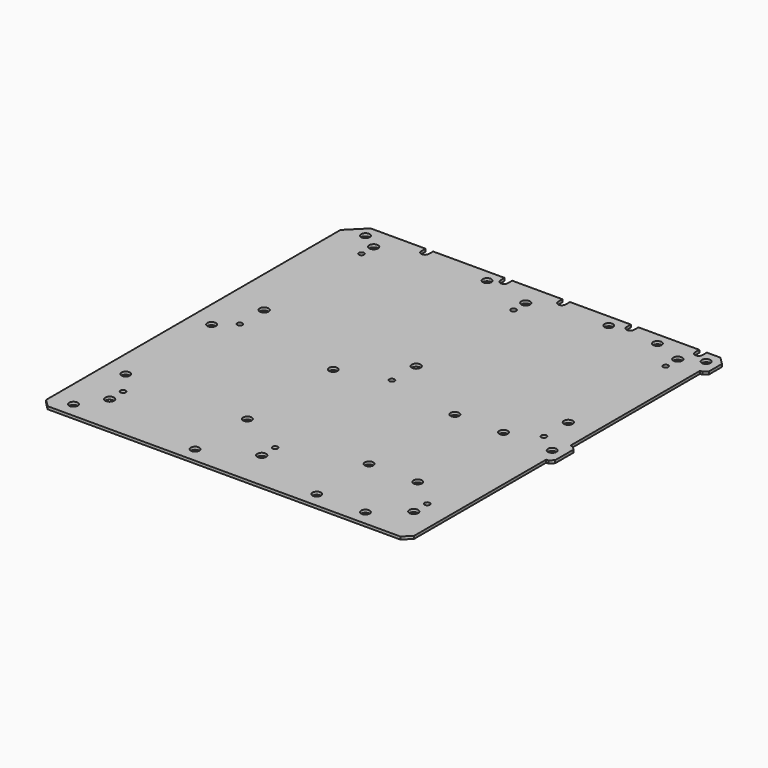
from build123d import *

# Parameters (mm, degrees)
F0_W     = 312.42
F0_H     = 327.66
F0_R     = 3.5687
F0_R_2   = 3.683
F0_R_3   = 2.1844
F1_DEPTH = 2.286
F2_W     = 6.35
F2_H     = 4.445
F2_W_2   = 5.08
F2_H_2   = 135.255
F2_H_3   = 144.145
F3_DEPTH = 2.287
F4_SIZE  = 13.97
F5_SIZE  = 6.35
F6_SIZE  = 3.175


with BuildPart() as f1:
    # F0 (on Top) → F1 (new body)
    with BuildSketch(Plane.XY):
        Rectangle(F0_W, F0_H)
        with Locations((-138.43, -151.13)):
            Circle(F0_R, mode=Mode.SUBTRACT)
        with Locations((-124.46, -130.81)):
            Circle(F0_R_2, mode=Mode.SUBTRACT)
        with Locations((-124.46, -116.84)):
            Circle(F0_R_3, mode=Mode.SUBTRACT)
        with Locations((-138.43, -96.52)):
            Circle(F0_R, mode=Mode.SUBTRACT)
        with Locations((-36.83, -151.13)):
            Circle(F0_R, mode=Mode.SUBTRACT)
        with Locations((-36.83, -96.52)):
            Circle(F0_R, mode=Mode.SUBTRACT)
        with Locations((-138.43, -6.985)):
            Circle(F0_R, mode=Mode.SUBTRACT)
        with Locations((-36.83, -6.985)):
            Circle(F0_R, mode=Mode.SUBTRACT)
        with Locations((2.54, -130.81)):
            Circle(F0_R_2, mode=Mode.SUBTRACT)
        with Locations((64.77, -151.13)):
            Circle(F0_R, mode=Mode.SUBTRACT)
        with Locations((2.54, -116.84)):
            Circle(F0_R_3, mode=Mode.SUBTRACT)
        with Locations((64.77, -96.52)):
            Circle(F0_R, mode=Mode.SUBTRACT)
        with Locations((105.41, -151.13)):
            Circle(F0_R, mode=Mode.SUBTRACT)
        with Locations((129.54, -130.81)):
            Circle(F0_R_2, mode=Mode.SUBTRACT)
        with Locations((105.41, -96.52)):
            Circle(F0_R, mode=Mode.SUBTRACT)
        with Locations((129.54, -116.84)):
            Circle(F0_R_3, mode=Mode.SUBTRACT)
        with Locations((64.77, -6.985)):
            Circle(F0_R, mode=Mode.SUBTRACT)
        with Locations((105.41, -6.985)):
            Circle(F0_R, mode=Mode.SUBTRACT)
        with Locations((146.05, -6.985)):
            Circle(F0_R, mode=Mode.SUBTRACT)
        with Locations((-124.46, 5.08)):
            Circle(F0_R_3, mode=Mode.SUBTRACT)
        with Locations((-124.46, 30.48)):
            Circle(F0_R_2, mode=Mode.SUBTRACT)
        with Locations((-124.46, 132.08)):
            Circle(F0_R_3, mode=Mode.SUBTRACT)
        with Locations((-138.43, 153.67)):
            Circle(F0_R, mode=Mode.SUBTRACT)
        with Locations((-124.46, 144.78)):
            Circle(F0_R_2, mode=Mode.SUBTRACT)
        with Locations((-36.83, 153.67)):
            Circle(F0_R, mode=Mode.SUBTRACT)
        with Locations((2.54, 5.08)):
            Circle(F0_R_3, mode=Mode.SUBTRACT)
        with Locations((2.54, 30.48)):
            Circle(F0_R_2, mode=Mode.SUBTRACT)
        with Locations((129.54, 5.08)):
            Circle(F0_R_3, mode=Mode.SUBTRACT)
        with Locations((129.54, 30.48)):
            Circle(F0_R_2, mode=Mode.SUBTRACT)
        with Locations((2.54, 132.08)):
            Circle(F0_R_3, mode=Mode.SUBTRACT)
        with Locations((2.54, 144.78)):
            Circle(F0_R_2, mode=Mode.SUBTRACT)
        with Locations((64.77, 153.67)):
            Circle(F0_R, mode=Mode.SUBTRACT)
        with Locations((105.41, 153.67)):
            Circle(F0_R, mode=Mode.SUBTRACT)
        with Locations((129.54, 132.08)):
            Circle(F0_R_3, mode=Mode.SUBTRACT)
        with Locations((129.54, 144.78)):
            Circle(F0_R_2, mode=Mode.SUBTRACT)
        with Locations((146.05, 153.67)):
            Circle(F0_R, mode=Mode.SUBTRACT)
    extrude(amount=F1_DEPTH)

    # F2 (on face) → F3 (cut, through all)
    with BuildSketch(Plane.XY.offset(2.286)):
        with BuildLine():
            ThreePointArc((-96.393, 159.385), (-93.218, 156.21), (-90.043, 159.385))
            Line((-90.043, 159.385), (-96.393, 159.385))
        make_face()
        with Locations((-93.218, 161.6075)):
            Rectangle(F2_W, F2_H)
        with Locations((-93.218, 166.0525)):
            Rectangle(F2_W, F2_H)
        with Locations((-27.178, 166.0525)):
            Rectangle(F2_W, F2_H)
        with Locations((-27.178, 161.6075)):
            Rectangle(F2_W, F2_H)
        with BuildLine():
            Line((-24.003, 159.385), (-30.353, 159.385))
            ThreePointArc((-30.353, 159.385), (-27.178, 156.21), (-24.003, 159.385))
        make_face()
        with Locations((21.082, 166.0525)):
            Rectangle(F2_W, F2_H)
        with Locations((21.082, 161.6075)):
            Rectangle(F2_W, F2_H)
        with BuildLine():
            Line((24.257, 159.385), (17.907, 159.385))
            ThreePointArc((17.907, 159.385), (21.082, 156.21), (24.257, 159.385))
        make_face()
        with Locations((78.232, 166.0525)):
            Rectangle(F2_W, F2_H)
        with Locations((78.232, 161.6075)):
            Rectangle(F2_W, F2_H)
        with BuildLine():
            Line((81.407, 159.385), (75.057, 159.385))
            ThreePointArc((75.057, 159.385), (78.232, 156.21), (81.407, 159.385))
        make_face()
        with Locations((135.382, 166.0525)):
            Rectangle(F2_W, F2_H)
        with Locations((135.382, 161.6075)):
            Rectangle(F2_W, F2_H)
        with BuildLine():
            Line((138.557, 159.385), (132.207, 159.385))
            ThreePointArc((132.207, 159.385), (135.382, 156.21), (138.557, 159.385))
        make_face()
        with Locations((153.67, 73.3425)):
            Rectangle(F2_W_2, F2_H_2)
        with Locations((153.67, -91.7575)):
            Rectangle(F2_W_2, F2_H_3)
    extrude(amount=-F3_DEPTH, mode=Mode.SUBTRACT)

    # F4
    f4_edges = [f1.edges().sort_by_distance(p)[0] for p in [
        (-156.21, 163.83, 1.143),
    ]]
    chamfer(f4_edges, length=F4_SIZE)

    # F5
    f5_edges = [f1.edges().sort_by_distance(p)[0] for p in [
        (-156.21, -163.83, 1.143),
        (151.13, -163.83, 1.143),
        (156.21, 163.83, 1.143),
    ]]
    chamfer(f5_edges, length=F5_SIZE)

    # F6
    f6_edges = [f1.edges().sort_by_distance(p)[0] for p in [
        (156.21, 140.97, 1.143),
        (156.21, 5.715, 1.143),
        (156.21, -19.685, 1.143),
    ]]
    chamfer(f6_edges, length=F6_SIZE)


solid = f1.part
